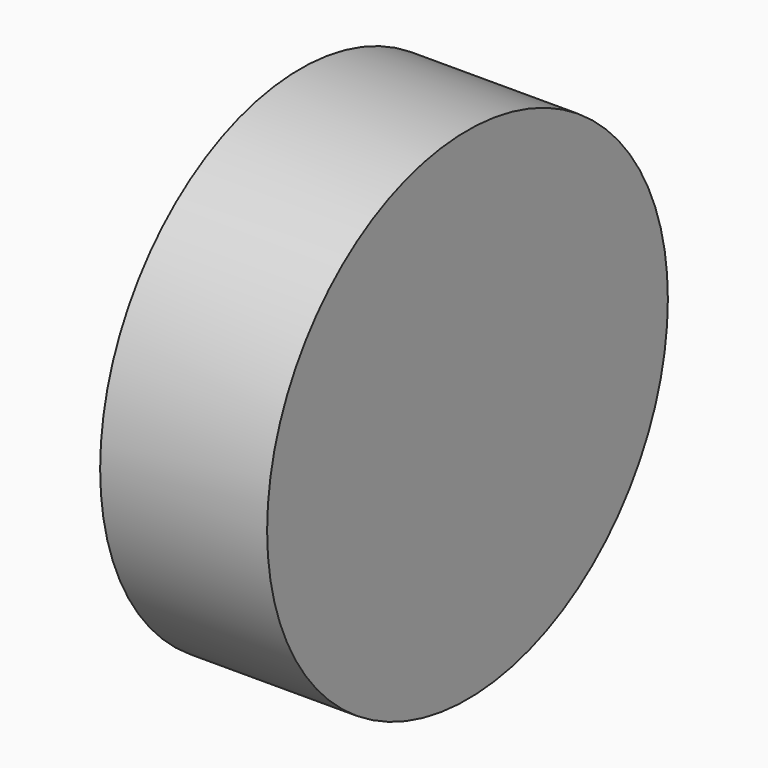
from build123d import *

# Parameters (mm, degrees)
F0_R     = 38.1
F1_DEPTH = 25.4
F2_T     = -3.81


with BuildPart() as f1:
    # F0 (on Right) → F1 (new body)
    with BuildSketch(Plane.YZ):
        Circle(F0_R)
    extrude(amount=-F1_DEPTH)

    # F2
    f2_openings = [f1.faces().sort_by_distance(p)[0] for p in [
        (-25.4, 0, 0),
    ]]
    offset(amount=F2_T, openings=f2_openings)


solid = f1.part
